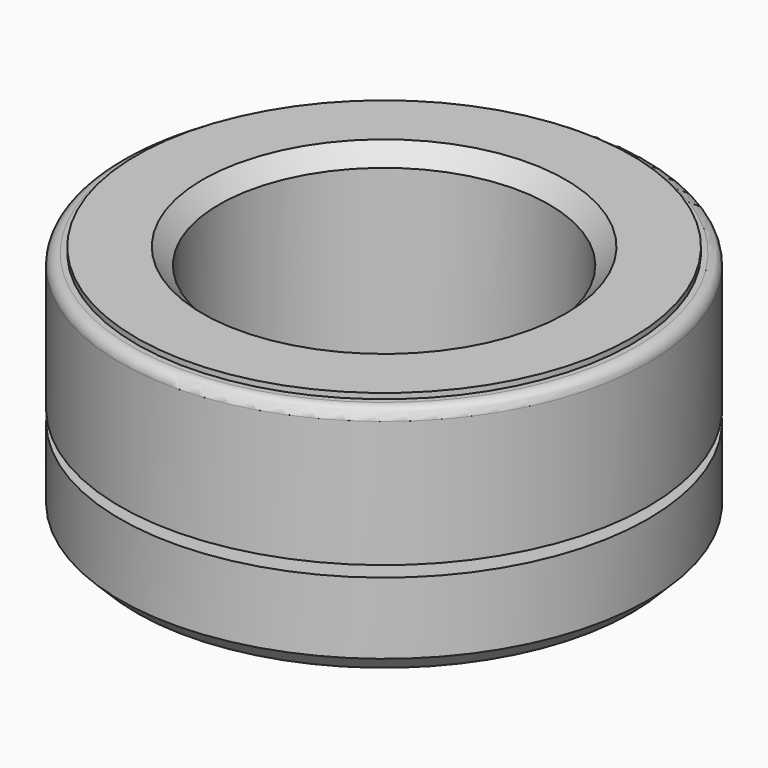
from build123d import *

# Parameters (mm, degrees)
F2_SIZE = 1.5
F3_R    = 1


with BuildPart() as f1:
    # F0 (on Front) → F1 (revolve)
    with BuildSketch(Plane.XZ):
        Polygon((15, 22), (15, 0), (24, 0), (24, 8), (19, 8), (19, 9), (24, 9), (24, 21.5), (22.5, 21.5), (22.5, 22), align=None)
    revolve(axis=Axis((0, 0, -3.522726), (0, 0, 1)))

    # F2
    f2_edges = [f1.edges().sort_by_distance(p)[0] for p in [
        (-24, 0, 0),
        (-15, 0, 0),
        (-15, 0, 22),
    ]]
    chamfer(f2_edges, length=F2_SIZE)

    # F3
    f3_edges = [f1.edges().sort_by_distance(p)[0] for p in [
        (-24, 0, 21.5),
    ]]
    fillet(f3_edges, radius=F3_R)


solid = f1.part
